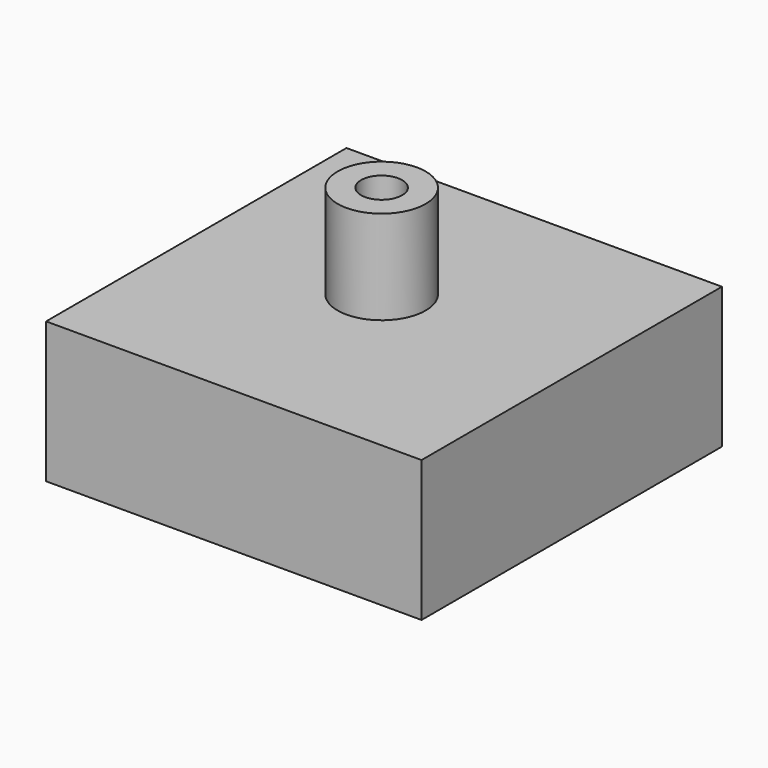
from build123d import *

# Parameters (mm, degrees)
F0_R     = 3.75
F0_R_2   = 1.75
F1_DEPTH = 10
F0_W     = 30
F0_H     = 30
F2_DEPTH = 2
F3_DEPTH = 10


with BuildPart() as f1:
    # F0 (on Top) → F1 (new body)
    with BuildSketch(Plane.XY):
        Circle(F0_R)
        Circle(F0_R_2, mode=Mode.SUBTRACT)
    extrude(amount=F1_DEPTH)

    # F0 (on Top) → F2 (join)
    with BuildSketch(Plane.XY):
        Rectangle(F0_W, F0_H)
        Circle(F0_R, mode=Mode.SUBTRACT)
        Polygon((17, 15), (15, 15), (15, -15), (-15, -15), (-15, -17), (17, -17), align=None)
    extrude(amount=F2_DEPTH)

    # F0 (on Top) → F3 (join)
    with BuildSketch(Plane.XY):
        Polygon((17, 15), (15, 15), (15, -15), (-15, -15), (-15, -17), (17, -17), align=None)
    extrude(amount=-F3_DEPTH)


solid = f1.part
